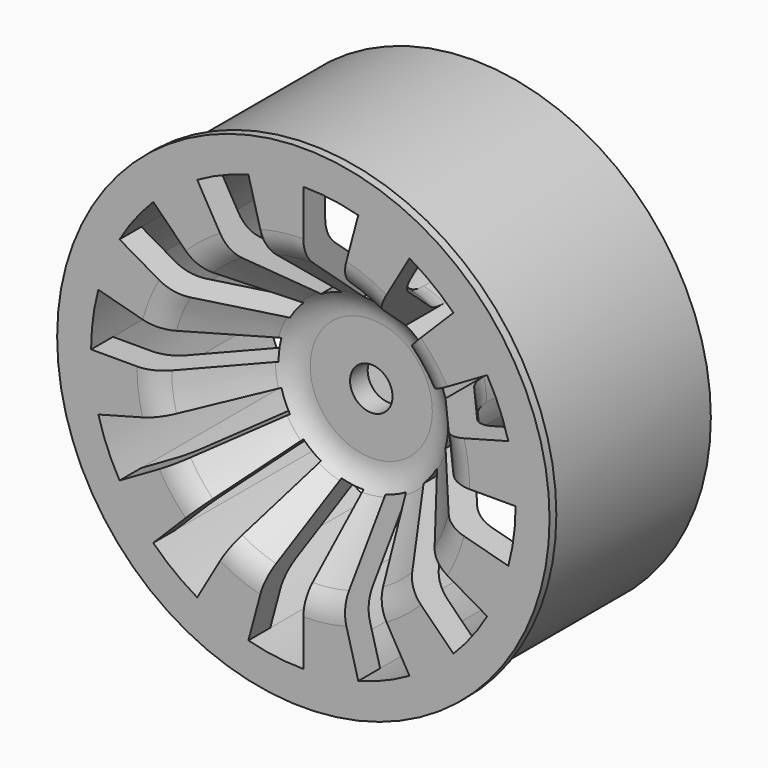
from build123d import *

# Parameters (mm, degrees)
PAD010_START       = 35
SKETCH008_R        = 28
SKETCH008_R_2      = 2.5
PAD010_DEPTH       = 25
POCKET007_DEPTH    = 25
POLARPATTERN_COUNT = 12
SKETCH053_R        = 25
SKETCH053_R_2      = 10
POCKET008_DEPTH    = 7
POCKET013_DEPTH    = 12.4
SKETCH021_R        = 10.05
POCKET014_DEPTH    = 6.4
SKETCH054_R        = 29
SKETCH054_R_2      = 28
PAD005_DEPTH       = 1


with BuildPart() as part:
    # Sketch008 → Pad010 (new body)
    with BuildSketch(Plane.XZ.offset(PAD010_START)):
        Circle(SKETCH008_R)
        Circle(SKETCH008_R_2, mode=Mode.SUBTRACT)
    extrude(amount=PAD010_DEPTH)

    # Sketch052 (on Face4 of Pad010) → Pocket007 (cut)
    with BuildSketch(Plane.XZ.offset(60)):
        with BuildLine():
            ThreePointArc((6.470476, 24.148146), (3.263155, 24.786122), (0, 25))
            Line((0, 10), (0, 25))
            ThreePointArc((2.58819, 9.659258), (1.305262, 9.914449), (0, 10))
            Line((2.58819, 9.659258), (6.470476, 24.148146))
        make_face()
    pocket007 = extrude(amount=-POCKET007_DEPTH, mode=Mode.SUBTRACT)

    # PolarPattern: Pocket007 ×12 about axis
    polarpattern_axis = Axis((0, -60, 0), (0, -1, 0))
    for i in range(1, POLARPATTERN_COUNT):
        add(pocket007.rotate(polarpattern_axis, i * 360 / POLARPATTERN_COUNT), mode=Mode.SUBTRACT)

    # Sketch053 (on Face2 of PolarPattern) → Pocket008 (cut)
    with BuildSketch(Plane(origin=(0, -35, 0), x_dir=(1, 0, 0), z_dir=(0, 1, 0))):
        Circle(SKETCH053_R)
        Circle(SKETCH053_R_2, mode=Mode.SUBTRACT)
    extrude(amount=-POCKET008_DEPTH, mode=Mode.SUBTRACT)

    # Sketch012 → Groove (revolve, cut)
    with BuildSketch(Plane.XY):
        with BuildLine():
            Line((0, -60), (0, -50))
            Line((0, -50), (7.190437, -50))
            ThreePointArc((10.194715, -51.359108), (8.839138, -50.355582), (7.190437, -50))
            Line((10.194715, -51.359108), (16.595721, -58.640892))
            ThreePointArc((16.595721, -58.640892), (17.951299, -59.644418), (19.6, -60))
            Line((19.6, -60), (20, -60))
            Line((20, -60), (0, -60))
        make_face()
        with BuildLine():
            Line((10, -42), (10, -45.491841))
            ThreePointArc((10, -45.491841), (10.257199, -46.903026), (10.995721, -48.132733))
            Line((10.995721, -48.132733), (17.405285, -55.424251))
            ThreePointArc((17.405285, -55.424251), (18.760862, -56.427777), (20.409563, -56.783359))
            Line((20.409563, -56.783359), (25, -56.783359))
            Line((25, -56.783359), (25, -42))
            Line((25, -42), (10, -42))
        make_face()
    revolve(axis=Axis((0, 0, 0), (0, 1, 0)), mode=Mode.SUBTRACT)

    # Sketch020 (on Face103 of Groove) → Pocket013 (cut)
    with BuildSketch(Plane(origin=(0, -35, 0), x_dir=(1, 0, 0), z_dir=(0, 1, 0))):
        Polygon((7.043673, 0), (3.521837, 6.1), (-3.521837, 6.1), (-7.043673, 0), (-3.521837, -6.1), (3.521837, -6.1), align=None)
    extrude(amount=-POCKET013_DEPTH, mode=Mode.SUBTRACT)

    # Sketch021 (on Face103 of Pocket013) → Pocket014 (cut)
    with BuildSketch(Plane(origin=(0, -35, 0), x_dir=(1, 0, 0), z_dir=(0, 1, 0))):
        Circle(SKETCH021_R)
    extrude(amount=-POCKET014_DEPTH, mode=Mode.SUBTRACT)

    # Sketch054 (on Face3 of Pocket014) → Pad005 (join)
    with BuildSketch(Plane.XZ.offset(60)):
        Circle(SKETCH054_R)
        Circle(SKETCH054_R_2, mode=Mode.SUBTRACT)
    extrude(amount=-PAD005_DEPTH)


with BuildPart() as part_1:
    # Body007 placement: moved
    add(part.part.moved(Location((0, -63, 0))))


solid = part_1.part
